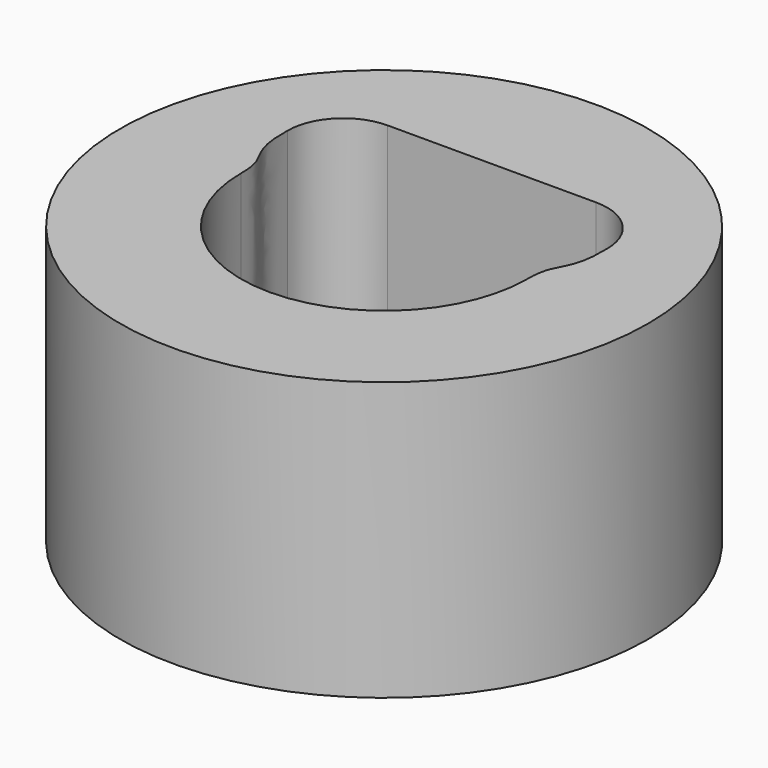
from build123d import *

# Parameters (mm, degrees)
SKETCH_R  = 9.5
PAD_DEPTH = 10


with BuildPart() as part:
    # Sketch → Pad (new body)
    with BuildSketch(Plane.XY):
        Circle(SKETCH_R)
        with BuildLine():
            ThreePointArc((-3.75, 4.85), (-5.164214, 4.264214), (-5.75, 2.85))
            add(Edge.make_bspline(
                [(-5.75, 2.85), (-5.797957, 0.992558), (-5.136857, 1.384321), (-5.149992, -0.009195)],
                knots=[0, 0, 0, 0, 1, 1, 1, 1], degree=3))
            ThreePointArc((-5.149992, -0.009195), (0, -5.15), (5.149992, -0.009195))
            add(Edge.make_bspline(
                [(5.75, 2.85), (5.797957, 0.992558), (5.136857, 1.384321), (5.149992, -0.009195)],
                knots=[0, 0, 0, 0, 1, 1, 1, 1], degree=3))
            ThreePointArc((5.75, 2.85), (5.164214, 4.264214), (3.75, 4.85))
            Line((3.75, 4.85), (-3.75, 4.85))
        make_face(mode=Mode.SUBTRACT)
    extrude(amount=PAD_DEPTH)


solid = part.part
